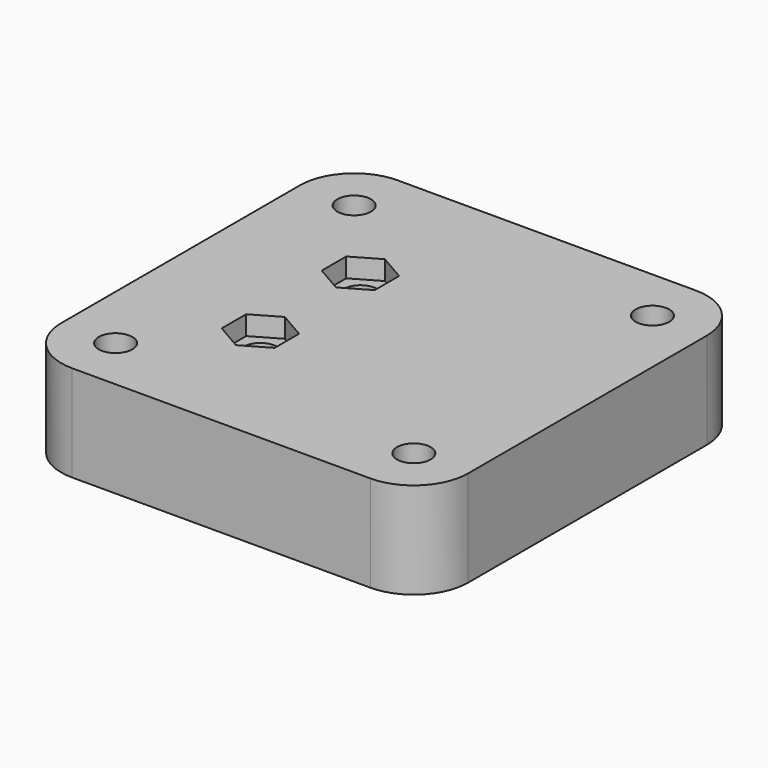
from build123d import *

# Parameters (mm, degrees)
F0_R     = 1.75
F1_DEPTH = 10
F2_R     = 2.75
F2_R_2   = 1.75
F3_DEPTH = 4
F4_W     = 6
F4_H     = 3
F5_DEPTH = 3
F6_R     = 1
F4_R     = 1.75
F7_DEPTH = 25
F9_DEPTH = 2


with BuildPart() as f1:
    # F0 (on Top) → F1 (new body)
    with BuildSketch(Plane.XY):
        with BuildLine():
            Line((-15.5, -21.15), (15.5, -21.15))
            ThreePointArc((15.5, -21.15), (19.495153, -19.495153), (21.15, -15.5))
            Line((21.15, -15.5), (21.15, 15.5))
            ThreePointArc((21.15, 15.5), (19.495153, 19.495153), (15.5, 21.15))
            Line((15.5, 21.15), (-15.5, 21.15))
            ThreePointArc((-15.5, 21.15), (-19.495153, 19.495153), (-21.15, 15.5))
            Line((-21.15, 15.5), (-21.15, -15.5))
            ThreePointArc((-21.15, -15.5), (-19.495153, -19.495153), (-15.5, -21.15))
        make_face()
        with Locations((-15.5, -15.5)):
            Circle(F0_R, mode=Mode.SUBTRACT)
        with Locations((15.5, -15.5)):
            Circle(F0_R, mode=Mode.SUBTRACT)
        with Locations((-15.5, 15.5)):
            Circle(F0_R, mode=Mode.SUBTRACT)
        with Locations((15.5, 15.5)):
            Circle(F0_R, mode=Mode.SUBTRACT)
    extrude(amount=F1_DEPTH)

    # F2 (on face) → F3 (cut)
    with BuildSketch(Plane(origin=(0, 0, 0), x_dir=(1, 0, 0), z_dir=(0, 0, -1))):
        with Locations((15.5, 15.5)):
            Circle(F2_R)
        with Locations((15.5, 15.5)):
            Circle(F2_R_2, mode=Mode.SUBTRACT)
        with Locations((15.5, -15.5)):
            Circle(F2_R)
        with Locations((15.5, -15.5)):
            Circle(F2_R_2, mode=Mode.SUBTRACT)
        with Locations((-15.5, -15.5)):
            Circle(F2_R)
        with Locations((-15.5, -15.5)):
            Circle(F2_R_2, mode=Mode.SUBTRACT)
        with Locations((-15.5, 15.5)):
            Circle(F2_R)
        with Locations((-15.5, 15.5)):
            Circle(F2_R_2, mode=Mode.SUBTRACT)
    extrude(amount=-F3_DEPTH, mode=Mode.SUBTRACT)

    # F4 (on face) → F5 (join)
    with BuildSketch(Plane(origin=(0, 0, 0), x_dir=(1, 0, 0), z_dir=(0, 0, -1))):
        with Locations((2.85, 6.5)):
            Rectangle(F4_W, F4_H)
        with Locations((-18.15, -6.5)):
            Rectangle(F4_W, F4_H)
        with Locations((-18.15, 6.5)):
            Rectangle(F4_W, F4_H)
        with Locations((2.85, -6.5)):
            Rectangle(F4_W, F4_H)
    extrude(amount=F5_DEPTH)

    # F6
    f6_edges = [f1.edges().sort_by_distance(p)[0] for p in [
        (-21.15, -8, -1.5),
        (-21.15, -5, -1.5),
        (-21.15, 5, -1.5),
        (-15.15, 5, -1.5),
        (-15.15, -8, -1.5),
        (-0.15, -8, -1.5),
        (-0.15, -5, -1.5),
        (-0.15, 5, -1.5),
        (-0.15, 8, -1.5),
        (5.85, -8, -1.5),
        (5.85, 5, -1.5),
        (5.85, -5, -1.5),
        (5.85, 8, -1.5),
        (-15.15, 8, -1.5),
        (-21.15, 8, -1.5),
        (-15.15, -5, -1.5),
    ]]
    fillet(f6_edges, radius=F6_R)

    # F4 (on face) → F7 (cut)
    with BuildSketch(Plane(origin=(0, 0, 0), x_dir=(1, 0, 0), z_dir=(0, 0, -1))):
        with Locations((-7.65, 6.5)):
            Circle(F4_R)
        with Locations((-7.65, -6.5)):
            Circle(F4_R)
    extrude(amount=-F7_DEPTH, mode=Mode.SUBTRACT)

    # F8 (on face) → F9 (cut)
    with BuildSketch(Plane.XY.offset(10)):
        Polygon((-4.9, 4.912287), (-4.9, 8.087713), (-7.65, 9.675426), (-10.4, 8.087713), (-10.4, 4.912287), (-7.65, 3.324574), align=None)
        Polygon((-4.9, -8.087713), (-4.9, -4.912287), (-7.65, -3.324574), (-10.4, -4.912287), (-10.4, -8.087713), (-7.65, -9.675426), align=None)
    extrude(amount=-F9_DEPTH, mode=Mode.SUBTRACT)


solid = f1.part
